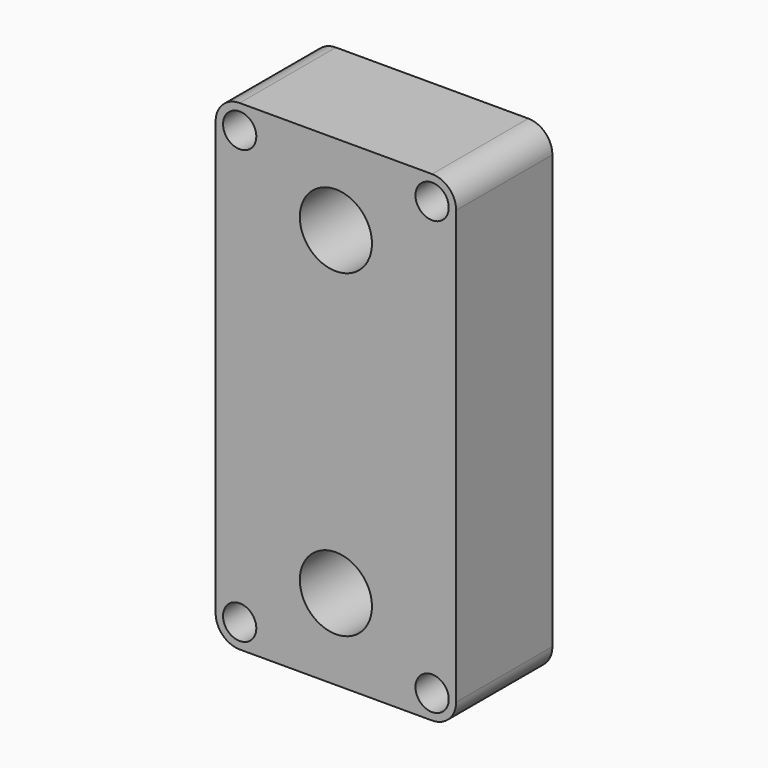
from build123d import *

# Parameters (mm, degrees)
F0_W     = 50.8
F0_H     = 101.6
F0_R     = 7.62
F1_DEPTH = 12.7
F2_R     = 5.08
F3_R     = 3.515063
F4_DEPTH = 25.4


with BuildPart() as f1:
    # F0 (on Front) → F1 (new body, symmetric)
    with BuildSketch(Plane.XZ):
        Rectangle(F0_W, F0_H)
        with Locations((0, -33.737253)):
            Circle(F0_R, mode=Mode.SUBTRACT)
        with Locations((0, 33.737253)):
            Circle(F0_R, mode=Mode.SUBTRACT)
    extrude(amount=F1_DEPTH, both=True)

    # F2
    f2_edges = [f1.edges().sort_by_distance(p)[0] for p in [
        (25.4, 0, -50.8),
        (-25.4, 0, -50.8),
        (25.4, 0, 50.8),
        (-25.4, 0, 50.8),
    ]]
    fillet(f2_edges, radius=F2_R)

    # F3 (on face) → F4 (cut, symmetric)
    with BuildSketch(Plane.XZ.offset(12.7)):
        with Locations((-20.32, 45.72)):
            Circle(F3_R)
        with Locations((-20.32, -45.72)):
            Circle(F3_R)
        with Locations((20.32, 45.72)):
            Circle(F3_R)
        with Locations((20.32, -45.72)):
            Circle(F3_R)
    extrude(amount=F4_DEPTH, both=True, mode=Mode.SUBTRACT)


solid = f1.part
